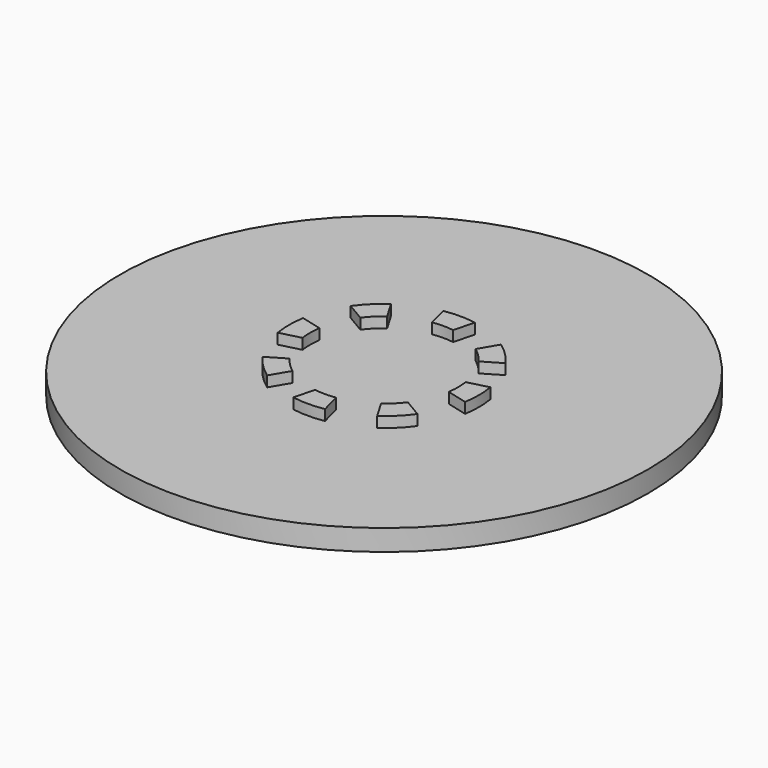
from build123d import *

# Parameters (mm, degrees)
F0_R     = 25
F1_DEPTH = 2
F4_DEPTH = 1
F5_COUNT = 8


with BuildPart() as f1:
    # F0 (on Top) → F1 (new body)
    with BuildSketch(Plane.XY):
        Circle(F0_R)
    extrude(amount=F1_DEPTH)


with BuildPart() as f4:
    # F2 (on face) → F4 (new body)
    with BuildSketch(Plane.XY.offset(2)):
        with BuildLine():
            ThreePointArc((1.5, 8.87412), (0, 9), (-1.5, 8.87412))
            Line((-1.5, 8.87412), (-1, 6.928203))
            ThreePointArc((-1, 6.928203), (0, 7), (1, 6.928203))
            Line((1, 6.928203), (1.5, 8.87412))
        make_face()
    extrude(amount=F4_DEPTH)


with BuildPart() as f5_1:
    # F5: instance of F4
    add(f4.part.rotate(Axis((0, 0, -13.949201), (0, 0, -1)), 1 * 360 / F5_COUNT))


with BuildPart() as f5_2:
    # F5: instance of F4
    add(f4.part.rotate(Axis((0, 0, -13.949201), (0, 0, -1)), 2 * 360 / F5_COUNT))


with BuildPart() as f5_3:
    # F5: instance of F4
    add(f4.part.rotate(Axis((0, 0, -13.949201), (0, 0, -1)), 3 * 360 / F5_COUNT))


with BuildPart() as f5_4:
    # F5: instance of F4
    add(f4.part.rotate(Axis((0, 0, -13.949201), (0, 0, -1)), 4 * 360 / F5_COUNT))


with BuildPart() as f5_5:
    # F5: instance of F4
    add(f4.part.rotate(Axis((0, 0, -13.949201), (0, 0, -1)), 5 * 360 / F5_COUNT))


with BuildPart() as f5_6:
    # F5: instance of F4
    add(f4.part.rotate(Axis((0, 0, -13.949201), (0, 0, -1)), 6 * 360 / F5_COUNT))


with BuildPart() as f5_7:
    # F5: instance of F4
    add(f4.part.rotate(Axis((0, 0, -13.949201), (0, 0, -1)), 7 * 360 / F5_COUNT))


solid = Compound([f1.part, f4.part, f5_1.part, f5_2.part, f5_3.part, f5_4.part, f5_5.part, f5_6.part, f5_7.part])
